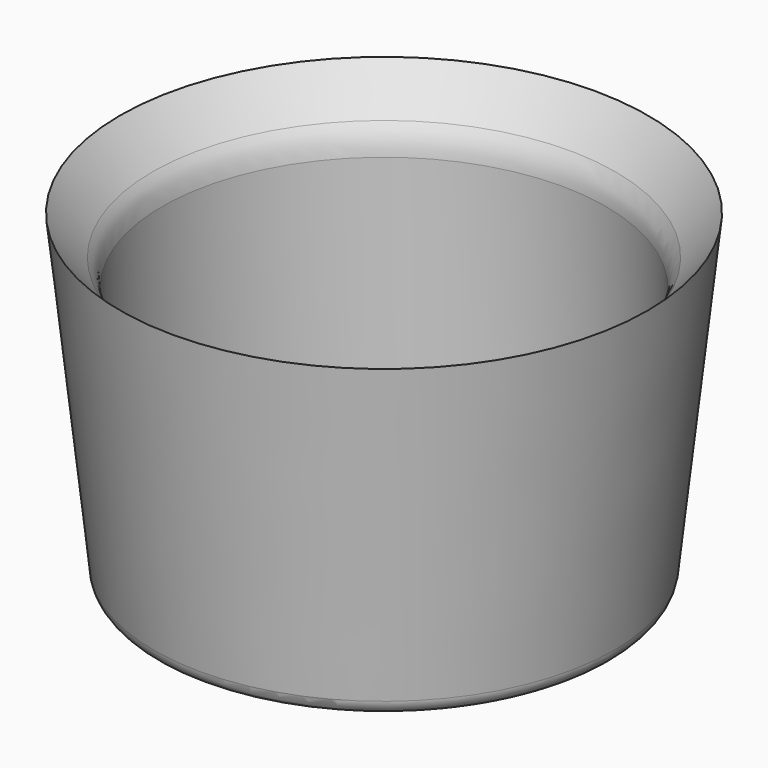
from build123d import *

# Parameters (mm, degrees)
F2_R = 12.7
F3_R = 5.08


with BuildPart() as f1:
    # F0 (on Right) → F1 (revolve)
    with BuildSketch(Plane.YZ):
        Polygon((-65.786, 44.882439), (-78.269736, 60.014239), (-67.727208, -36.489587), (0, -36.489587), (0, -28.506783), (-65.786, -28.506783), align=None)
    revolve(axis=Axis((0, 0, -32.498185), (0, 0, -1)))

    # F2
    f2_edges = [f1.edges().sort_by_distance(p)[0] for p in [
        (0, 65.786, -28.506783),
        (0, 65.786, 44.882439),
        (0, -65.786, 8.187828),
    ]]
    fillet(f2_edges, radius=F2_R)

    # F3
    f3_edges = [f1.edges().sort_by_distance(p)[0] for p in [
        (0, 67.727208, -36.489587),
    ]]
    fillet(f3_edges, radius=F3_R)


solid = f1.part
